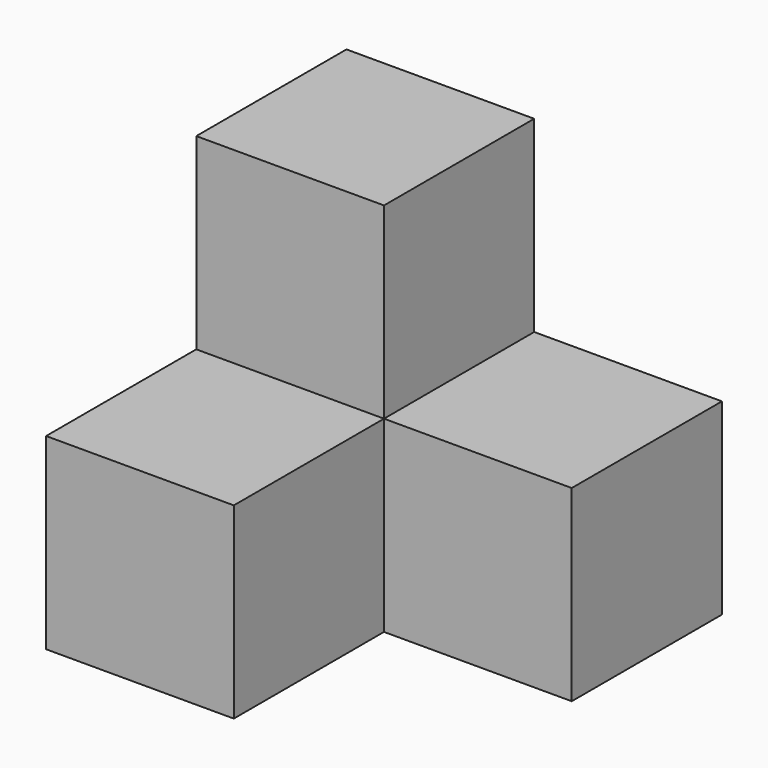
from build123d import *

# Parameters (mm, degrees)
BOX_W        = 10
BOX_H        = 10
BOX_DEPTH    = 10
BOX001_W     = 10
BOX001_H     = 10
BOX001_DEPTH = 10
BOX002_W     = 10
BOX002_H     = 10
BOX002_DEPTH = 10
BOX003_W     = 10
BOX003_H     = 10
BOX003_DEPTH = 10


with BuildPart() as cub1_nivell1:
    # Box → Box (new body)
    with BuildSketch(Plane.XY):
        with Locations((5, 5)):
            Rectangle(BOX_W, BOX_H)
    extrude(amount=BOX_DEPTH)


with BuildPart() as cub2_nivell1:
    # Box001 → Box001 (new body)
    with BuildSketch(Plane(origin=(10, 0, 0), x_dir=(1, 0, 0), z_dir=(0, 0, 1))):
        with Locations((5, 5)):
            Rectangle(BOX001_W, BOX001_H)
    extrude(amount=BOX001_DEPTH)


with BuildPart() as cub3_nivell1:
    # Box002 → Box002 (new body)
    with BuildSketch(Plane(origin=(0, -10, 0), x_dir=(1, 0, 0), z_dir=(0, 0, 1))):
        with Locations((5, 5)):
            Rectangle(BOX002_W, BOX002_H)
    extrude(amount=BOX002_DEPTH)


with BuildPart() as cub1_nivell2:
    # Box003 → Box003 (new body)
    with BuildSketch(Plane.XY.offset(10)):
        with Locations((5, 5)):
            Rectangle(BOX003_W, BOX003_H)
    extrude(amount=BOX003_DEPTH)


solid = Compound([cub1_nivell1.part, cub2_nivell1.part, cub3_nivell1.part, cub1_nivell2.part])
